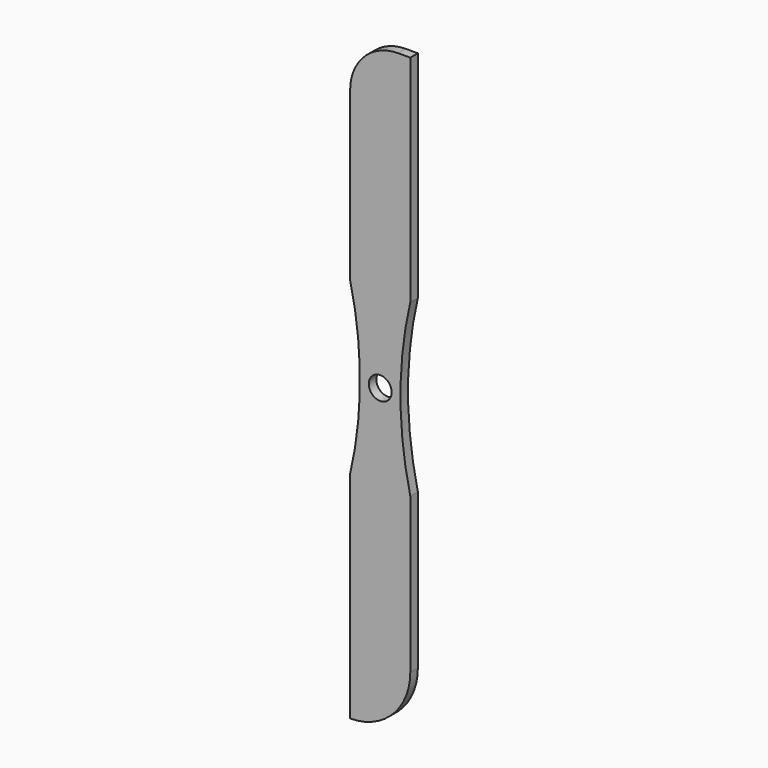
from build123d import *

# Parameters (mm, degrees)
F0_R     = 2.413
F1_DEPTH = 2


with BuildPart() as f1:
    # F0 (on Front) → F1 (new body)
    with BuildSketch(Plane.XZ):
        with BuildLine():
            Line((6.35, 63.5), (3.81, 63.5))
            ThreePointArc((3.81, 63.5), (-3.374205, 60.524205), (-6.35, 53.34))
            Line((-6.35, 53.34), (-6.35, 18.002914))
            ThreePointArc((-6.35, 18.002914), (-4.280137, 0), (-6.35, -18.002914))
            Line((-6.35, -18.002914), (-6.35, -63.5))
            ThreePointArc((-6.35, -63.5), (2.630256, -59.780256), (6.35, -50.8))
            Line((6.35, -50.8), (6.35, -18.002914))
            ThreePointArc((6.35, -18.002914), (4.278073, 0), (6.35, 18.002914))
            Line((6.35, 18.002914), (6.35, 63.5))
        make_face()
        Circle(F0_R, mode=Mode.SUBTRACT)
    extrude(amount=F1_DEPTH)


solid = f1.part
